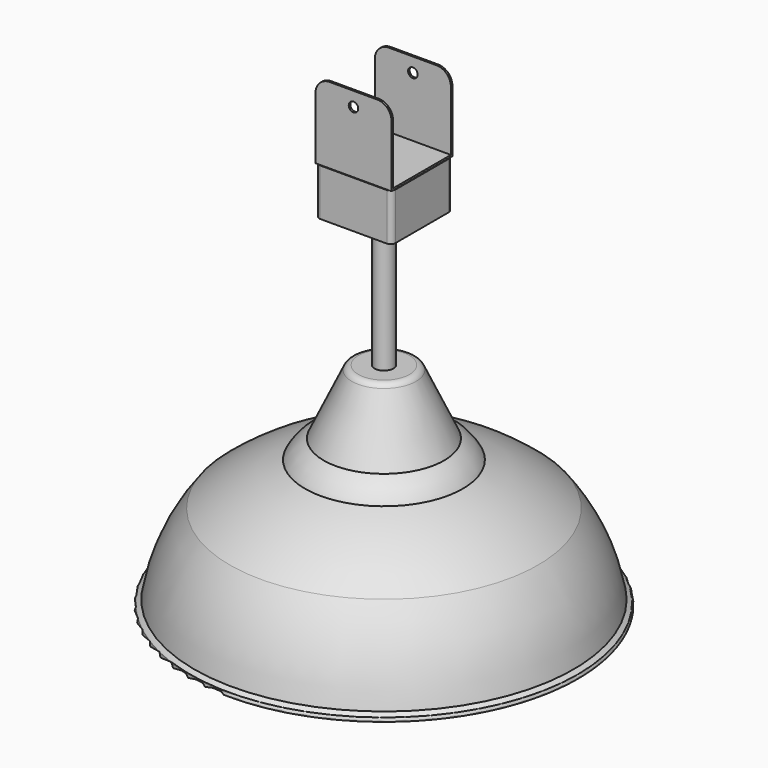
from build123d import *

# Parameters (mm, degrees)
F0_W      = 10
F0_H      = 140
F0_W_2    = 10.1175457239
F0_H_2    = 10
F3_DEPTH  = 50
F4_R      = 7.8584187258
F4_R_2    = 5.3854920622
F5_DEPTH  = 13.5
F7_DEPTH  = 80
F8_R      = 15
F9_R      = 5
F10_DEPTH = 244.7935654045
F11_W     = 80
F11_H     = 0.5
F12_DEPTH = 244.7935654045


with BuildPart() as f1:
    # F0 (on Front) → F1 (revolve)
    with BuildSketch(Plane.XZ):
        with BuildLine():
            Line((0, 220.0000015684), (0, 225))
            Line((0, 225), (-10, 225))
            Line((-10, 225), (-26.9260526304, 225))
            ThreePointArc((-26.9260526304, 225), (-30.9120226178, 223.838283054), (-33.6496916525, 220.7169514056))
            Line((-33.6496916525, 220.7169514056), (-63.2846280933, 157.178029418))
            ThreePointArc((-63.2846280933, 157.178029418), (-74.7969954904, 148.9690564671), (-82.9312875867, 137.4038010836))
            ThreePointArc((-82.9312875867, 137.4038010836), (-124.5684520166, 118.6316999814), (-162.0144844056, 92.48136729))
            ThreePointArc((-162.0144844056, 92.48136729), (-185.8663432891, 52.558971392), (-199.2674171925, 8.0267349258))
            Line((-199.2674171925, 8.0267349258), (-203.7485986948, 4.8172413371))
            ThreePointArc((-203.7485986948, 4.8172413371), (-204.3251946094, 1.3302129632), (-200.8381662354, 0.7536170486))
            Line((-200.8381662354, 0.7536170486), (-200.8372155213, 0.7522896359))
            Line((-200.8372155213, 0.7522896359), (-194.6718284064, 5.1680381179))
            ThreePointArc((-194.6718284064, 5.1680381179), (-181.8044218445, 49.3675026985), (-158.3869206883, 89.0006133565))
            ThreePointArc((-158.3869206883, 89.0006133565), (-120.9260393373, 114.946039422), (-79.2486125443, 133.3708830094))
            ThreePointArc((-79.2486125443, 133.3708830094), (-71.3663991192, 145.3273435613), (-59.5329005465, 153.3929835817))
            Line((-59.5329005465, 153.3929835817), (-29.1183248915, 218.603494618))
            ThreePointArc((-29.1183248915, 218.603494618), (-28.2256957862, 219.6212186165), (-26.9260526304, 220.0000015684))
            Line((-26.9260526304, 220.0000015684), (-20.2350914478, 220.0000015684))
            Line((-20.2350914478, 220.0000015684), (0, 220.0000015684))
        make_face()
        with Locations((-5, 295)):
            Rectangle(F0_W, F0_H)
        Polygon((0, 175.0000015684), (0, 220.0000015684), (-20.2350914478, 220.0000015684), (-20.2350914478, 175.0000015684), (-10.1175457239, 175.0000015684), align=None)
        with Locations((-5.058772862, 170.0000015684)):
            Rectangle(F0_W_2, F0_H_2)
        with BuildLine():
            Line((0, 155.9615681598), (0, 165.0000015684))
            Line((0, 165.0000015684), (-10.1175457239, 165.0000015684))
            ThreePointArc((-10.1175457239, 165.0000015684), (-11.8839914849, 157.133947358), (-16.8441098753, 150.7784485561))
            ThreePointArc((-16.8441098753, 150.7784485561), (-8.8117643851, 154.636486706), (0, 155.9615681598))
        make_face()
        with BuildLine():
            Line((0, 126.0000015684), (0, 155.9615681598))
            ThreePointArc((0, 155.9615681598), (-8.8117643851, 154.636486706), (-16.8441098753, 150.7784485561))
            ThreePointArc((-16.8441098753, 150.7784485561), (-28.6364851376, 117.1882371832), (0, 96.0384349769))
            Line((0, 96.0384349769), (0, 126.0000015684))
        make_face()
    revolve(axis=Axis((0, 0, 222.5000007842), (0, 0, -1)))

    # F2 (on face) → F3 (join)
    with BuildSketch(Plane.XY.offset(365)):
        with BuildLine():
            ThreePointArc((40, 35), (38.5355339059, 38.5355339059), (35, 40))
            Line((35, 40), (-35, 40))
            ThreePointArc((-35, 40), (-38.5355339059, 38.5355339059), (-40, 35))
            Line((-40, 35), (-40, -35))
            ThreePointArc((-40, -35), (-38.5355339059, -38.5355339059), (-35, -40))
            Line((-35, -40), (35, -40))
            ThreePointArc((35, -40), (38.5355339059, -38.5355339059), (40, -35))
            Line((40, -35), (40, 35))
        make_face()
    extrude(amount=F3_DEPTH)

    # F4 (on face) → F5 (join)
    with BuildSketch(Plane(origin=(-40, 0, 0), x_dir=(0, -1, 0), z_dir=(-1, 0, 0))):
        with Locations((0, 403.3021628857)):
            Circle(F4_R)
        with Locations((0, 403.3021628857)):
            Circle(F4_R_2, mode=Mode.SUBTRACT)
    extrude(amount=F5_DEPTH)

    # F6 (on face) → F7 (join, through all)
    with BuildSketch(Plane(origin=(-40, 0, 0), x_dir=(0, -1, 0), z_dir=(-1, 0, 0))):
        Polygon((40, 415), (40, 495), (38, 495), (38, 417), (-38, 417), (-38, 495), (-40, 495), (-40, 415), align=None)
    extrude(amount=-F7_DEPTH)

    # F8
    f8_edges = [f1.edges().sort_by_distance(p)[0] for p in [
        (40, 39, 495),
        (40, -39, 495),
        (-40, 39, 495),
        (-40, -39, 495),
    ]]
    fillet(f8_edges, radius=F8_R)

    # F9 (on face) → F10 (cut, through all)
    with BuildSketch(Plane(origin=(0, 40, 0), x_dir=(-1, 0, 0), z_dir=(0, 1, 0))):
        with Locations((0, 480)):
            Circle(F9_R)
    extrude(amount=-F10_DEPTH, mode=Mode.SUBTRACT)

    # F11 (on face) → F12 (cut, through all)
    with BuildSketch(Plane(origin=(0, 40, 0), x_dir=(-1, 0, 0), z_dir=(0, 1, 0))):
        with Locations((4e-10, 414.75)):
            Rectangle(F11_W, F11_H)
    extrude(amount=-F12_DEPTH, mode=Mode.SUBTRACT)


solid = f1.part
